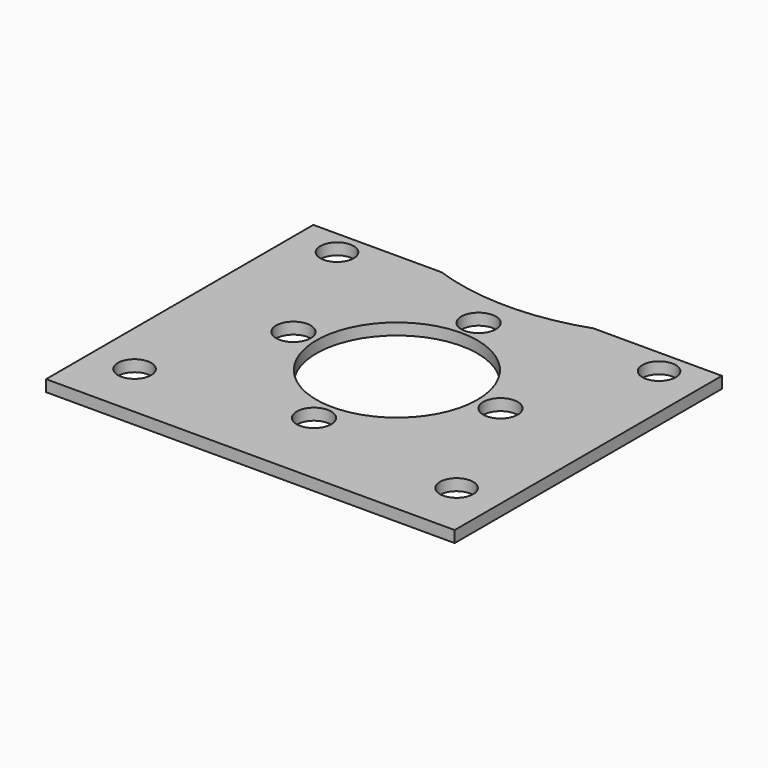
from build123d import *

# Parameters (mm, degrees)
F0_R     = 2.2987
F0_R_2   = 2.3876
F0_R_3   = 11.1125
F1_DEPTH = 1.5875


with BuildPart() as f1:
    # F0 (on Top) → F1 (new body)
    with BuildSketch(Plane.XY):
        with BuildLine():
            Line((0, 46.101), (0, 0))
            Line((0, 0), (56.388, 0))
            Line((56.388, 0), (56.388, 46.101))
            Line((56.388, 46.101), (38.6588, 46.101))
            ThreePointArc((38.6588, 46.101), (28.1813, 44.322395), (17.7038, 46.101))
            Line((17.7038, 46.101), (0, 46.101))
        make_face()
        with Locations((5.969, 7.7978)):
            Circle(F0_R, mode=Mode.SUBTRACT)
        with Locations((28.194, 10.9728)):
            Circle(F0_R_2, mode=Mode.SUBTRACT)
        with Locations((50.419, 7.7978)):
            Circle(F0_R, mode=Mode.SUBTRACT)
        with Locations((5.969, 42.7228)):
            Circle(F0_R, mode=Mode.SUBTRACT)
        with Locations((13.9192, 25.273)):
            Circle(F0_R_2, mode=Mode.SUBTRACT)
        with Locations((28.194, 25.273)):
            Circle(F0_R_3, mode=Mode.SUBTRACT)
        with Locations((42.4942, 25.273)):
            Circle(F0_R_2, mode=Mode.SUBTRACT)
        with Locations((28.194, 39.37)):
            Circle(F0_R_2, mode=Mode.SUBTRACT)
        with Locations((50.419, 42.7228)):
            Circle(F0_R, mode=Mode.SUBTRACT)
    extrude(amount=F1_DEPTH)


solid = f1.part
